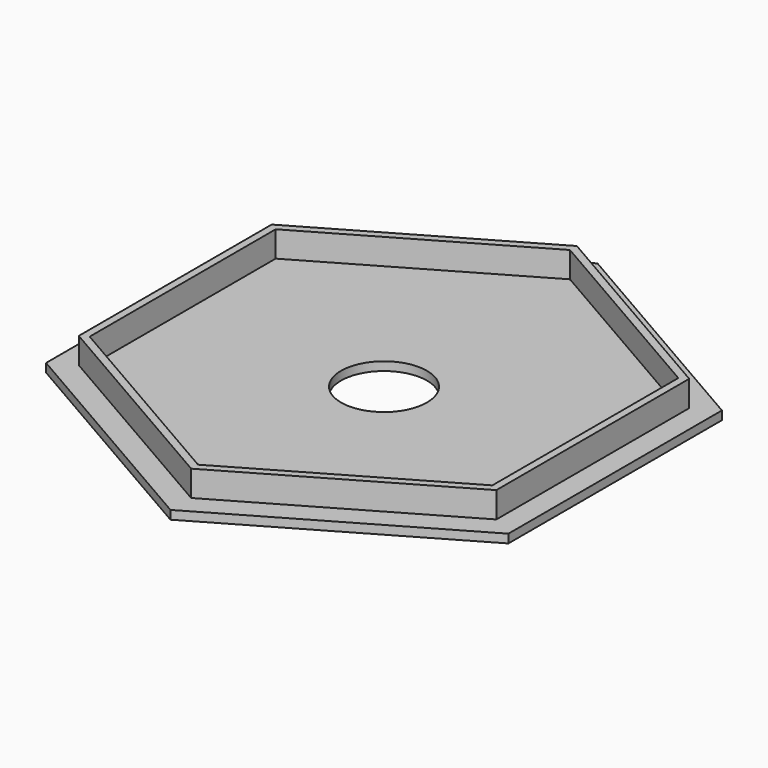
from build123d import *

# Parameters (mm, degrees)
PAD_DEPTH    = 1
PAD001_DEPTH = 3
SKETCH002_R  = 4.991419
POCKET_DEPTH = 5


with BuildPart() as part:
    # Sketch → Pad (new body)
    with BuildSketch(Plane.XY):
        Polygon((0, -31), (26.846788, -15.5), (26.846788, 15.5), (0, 31), (-26.846788, 15.5), (-26.846788, -15.5), align=None)
    extrude(amount=PAD_DEPTH)

    # Sketch001 (on Face8 of Pad) → Pad001 (join)
    with BuildSketch(Plane.XY.offset(1)):
        Polygon((0, -28), (24.248711, -14), (24.248711, 14), (0, 28), (-24.248711, 14), (-24.248711, -14), align=None)
        Polygon((0, -27), (23.382686, -13.5), (23.382686, 13.5), (0, 27), (-23.382686, 13.5), (-23.382686, -13.5), align=None, mode=Mode.SUBTRACT)
    extrude(amount=PAD001_DEPTH)

    # Sketch002 (on Face22 of Pad001) → Pocket (cut)
    with BuildSketch(Plane.XY.offset(1)):
        Circle(SKETCH002_R)
    extrude(amount=-POCKET_DEPTH, mode=Mode.SUBTRACT)


solid = part.part
